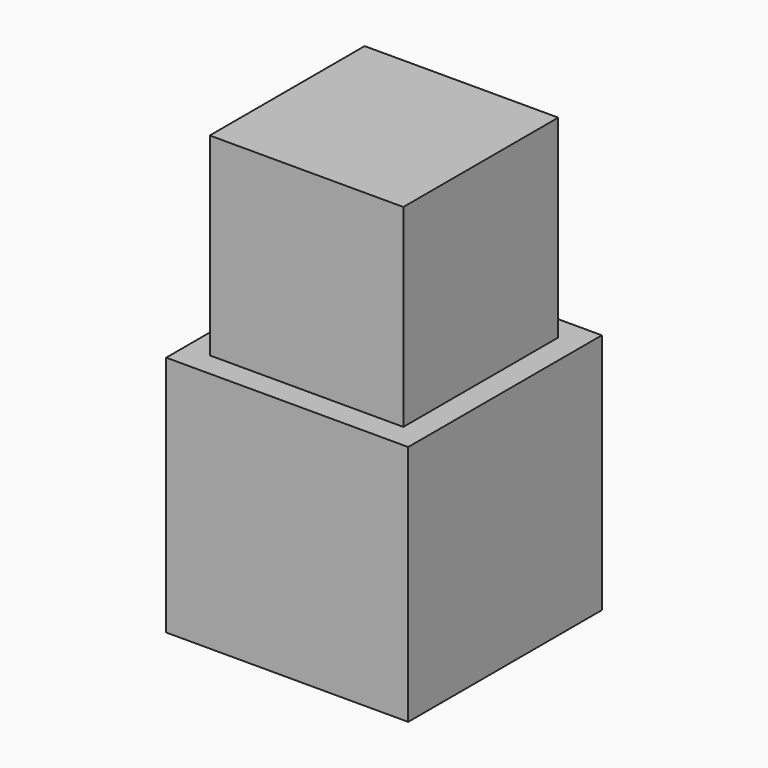
from build123d import *

# Parameters (mm, degrees)
F0_W     = 63.5
F0_H     = 63.5
F1_DEPTH = 63.5
F2_W     = 50.8
F2_H     = 50.8
F3_DEPTH = 50.8


with BuildPart() as f1:
    # F0 (on Front) → F1 (new body)
    with BuildSketch(Plane.XZ):
        Rectangle(F0_W, F0_H)
    extrude(amount=F1_DEPTH)

    # F2 (on face) → F3 (join)
    with BuildSketch(Plane.XY.offset(31.75)):
        with Locations((0, -31.75)):
            Rectangle(F2_W, F2_H)
    extrude(amount=F3_DEPTH)


solid = f1.part
